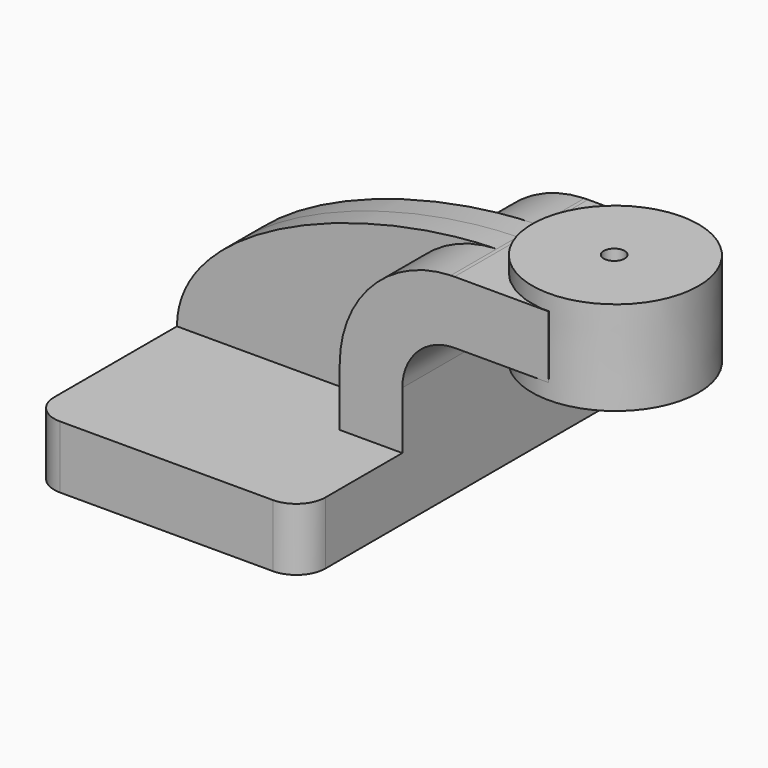
from build123d import *

# Parameters (mm, degrees)
F1_DEPTH = 63.5
F2_DEPTH = 25.4
F3_DEPTH = 7.9375
F5_R     = 8.89
F7_D     = 6.35
F7_2_D   = 6.35


with BuildPart() as f1:
    # F0 (on Front) → F1 (new body, symmetric)
    with BuildSketch(Plane.XZ):
        Polygon((22.2249999642, 9.525), (-41.275, 9.525), (-41.275, -9.525), (41.275, -9.525), (41.275, 9.525), align=None)
    extrude(amount=F1_DEPTH, both=True)

    # F0 (on Front) → F2 (join, symmetric)
    with BuildSketch(Plane.XZ):
        Polygon((85.7813953628, 61.9252000358), (60.325, 61.9252000358), (60.325, 42.8752), (85.7363031217, 42.8752), align=None)
        with BuildLine():
            Line((22.2249999642, 27.0002), (22.2249999642, 9.525))
            Line((22.2249999642, 9.525), (41.275, 9.525))
            Line((41.275, 9.525), (41.275, 27.0002))
            ThreePointArc((41.275, 27.0002), (45.9246798487, 38.2255201513), (57.15, 42.8752))
            Line((57.15, 42.8752), (60.325, 42.8752))
            Line((60.325, 42.8752), (60.325, 61.9252000358))
            Line((60.325, 61.9252000358), (57.15, 61.9252000358))
            add(Edge.make_bspline(
                [(56.042588155, 61.9076385555), (56.412756811, 61.9151124131), (56.7819095917, 61.9209691364), (57.15, 61.9252000358)],
                knots=[110.5311987842, 110.5311987842, 110.5311987842, 110.5311987842, 111.5045361803, 111.5045361803, 111.5045361803, 111.5045361803], degree=3))
            ThreePointArc((56.042588155, 61.9076385555), (32.065821857, 51.3012212622), (22.2249999642, 27.0002))
        make_face()
    extrude(amount=F2_DEPTH, both=True)

    # F0 (on Front) → F3 (join, symmetric)
    with BuildSketch(Plane.XZ):
        with BuildLine():
            add(Edge.make_bspline(
                [(-41.275, 9.525), (-41.1297210177, 39.3562083793), (14.0066143451, 61.0589149332), (56.042588155, 61.9076385555)],
                knots=[0, 0, 0, 0, 110.5311987842, 110.5311987842, 110.5311987842, 110.5311987842], degree=3))
            Line((-41.275, 9.525), (22.2249999642, 9.525))
            Line((22.2249999642, 9.525), (22.2249999642, 27.0002))
            ThreePointArc((22.2249999642, 27.0002), (32.065821857, 51.3012212622), (56.042588155, 61.9076385555))
        make_face()
    extrude(amount=F3_DEPTH, both=True)

    # F5
    f5_edges = [f1.edges().sort_by_distance(p)[0] for p in [
        (-41.275, -63.5, 0),
        (41.275, -63.5, 0),
        (41.275, 63.5, 0),
        (-41.275, 63.5, 0),
    ]]
    fillet(f5_edges, radius=F5_R)

    # F7 (through all)
    with Locations(Plane(origin=(0, 0, 0), x_dir=(1, 0, 0), z_dir=(0, 0, -1))):
        with Locations((85.4290425777, 0)):
            Hole(F7_D / 2)


with BuildPart() as f4:
    # F0 (on Front) → F4 (revolve)
    with BuildSketch(Plane.XZ):
        Polygon((85.7926383615, 66.675), (85.7813953628, 61.9252000358), (85.7363031217, 42.8752), (85.725, 38.1), (111.125, 38.1), (111.125, 66.675), align=None)
    revolve(axis=Axis((85.7588191807, 0, 52.3875), (0.0023670401, 0, 0.9999971986)))

    # F7#2 (through all)
    with Locations(Plane(origin=(0, 0, 0), x_dir=(1, 0, 0), z_dir=(0, 0, -1))):
        with Locations((85.4290425777, 0)):
            Hole(F7_2_D / 2)


solid = Compound([f1.part, f4.part])
